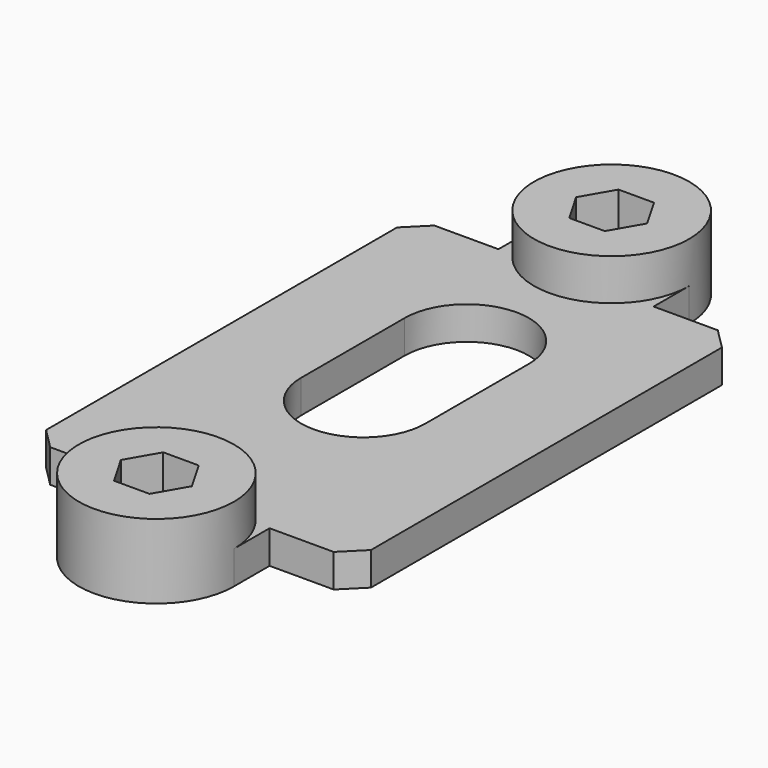
from build123d import *

# Parameters (mm, degrees)
F0_W      = 25
F0_H      = 40
F0_R      = 6.25
F1_DEPTH  = 3.2
F2_W      = 25
F2_H      = 40
F3_DEPTH  = 40
F4_W      = 15
F4_H      = 46.4
F4_R      = 2.25
F5_DEPTH  = 5
F6_SIZE   = 2
F7_R      = 2.25
F8_DEPTH  = 3.2
F9_W      = 46.4
F9_H      = 70
F10_DEPTH = 36.8
F11_W     = 25
F11_H     = 40
F12_DEPTH = 3.2
F13_R     = 7.5
F14_DEPTH = 4


with BuildPart() as f1:
    # F0 (on Top) → F1 (new body)
    with BuildSketch(Plane.XY):
        Rectangle(F0_W, F0_H)
        Circle(F0_R, mode=Mode.SUBTRACT)
    extrude(amount=F1_DEPTH)

    # F2 (on face) → F3 (join)
    with BuildSketch(Plane.XY.offset(3.2)):
        with BuildLine():
            Line((15.7, -23.2), (15.7, 23.2))
            Line((15.7, 23.2), (7.5, 23.2))
            Line((7.5, 23.2), (7.5, 27.5))
            ThreePointArc((7.5, 27.5), (0, 35), (-7.5, 27.5))
            Line((-7.5, 27.5), (-7.5, 23.2))
            Line((-7.5, 23.2), (-15.7, 23.2))
            Line((-15.7, 23.2), (-15.7, -23.2))
            Line((-15.7, -23.2), (-7.5, -23.2))
            Line((-7.5, -23.2), (-7.5, -27.5))
            ThreePointArc((-7.5, -27.5), (0, -35), (7.5, -27.5))
            Line((7.5, -27.5), (7.5, -23.2))
            Line((7.5, -23.2), (15.7, -23.2))
        make_face()
        Polygon((-3.435234, -27.5), (-1.717617, -24.525), (1.717617, -24.525), (3.435234, -27.5), (1.717617, -30.475), (-1.717617, -30.475), align=None, mode=Mode.SUBTRACT)
        Rectangle(F2_W, F2_H, mode=Mode.SUBTRACT)
        Polygon((-3.435234, 27.5), (-1.717617, 30.475), (1.717617, 30.475), (3.435234, 27.5), (1.717617, 24.525), (-1.717617, 24.525), align=None, mode=Mode.SUBTRACT)
    extrude(amount=-F3_DEPTH)

    # F4 (on face) → F5 (join)
    with BuildSketch(Plane.XY.offset(3.2)):
        with Locations((-23.2, 0)):
            Rectangle(F4_W, F4_H)
        with Locations((-23.2, -13.2)):
            Circle(F4_R, mode=Mode.SUBTRACT)
        with Locations((-23.2, 13.2)):
            Circle(F4_R, mode=Mode.SUBTRACT)
    extrude(amount=-F5_DEPTH)

    # F6
    f6_edges = [f1.edges().sort_by_distance(p)[0] for p in [
        (15.7, 23.2, -16.8),
        (-15.7, 23.2, -19.3),
        (-15.7, -23.2, -19.3),
        (15.7, -23.2, -16.8),
        (-30.7, 23.2, 0.7),
        (-30.7, -23.2, 0.7),
    ]]
    chamfer(f6_edges, length=F6_SIZE)

    # F7 (on face) → F8 (join)
    with BuildSketch(Plane(origin=(0, 0, -36.8), x_dir=(1, 0, 0), z_dir=(0, 0, -1))):
        Polygon((1.717617, 30.475), (-1.717617, 30.475), (-3.435234, 27.5), (-1.717617, 24.525), (1.717617, 24.525), (3.435234, 27.5), align=None)
        with Locations((0, 27.5)):
            Circle(F7_R, mode=Mode.SUBTRACT)
        Polygon((-3.435234, -27.5), (-1.717617, -30.475), (1.717617, -30.475), (3.435234, -27.5), (1.717617, -24.525), (-1.717617, -24.525), align=None)
        with Locations((0, -27.5)):
            Circle(F7_R, mode=Mode.SUBTRACT)
    extrude(amount=-F8_DEPTH)

    # F9 (on face) → F10 (cut)
    with BuildSketch(Plane.XY.offset(3.2)):
        with Locations((-7.5, 0)):
            Rectangle(F9_W, F9_H)
    extrude(amount=-F10_DEPTH, mode=Mode.SUBTRACT)

    # F11 (on face) → F12 (join)
    with BuildSketch(Plane.XY.offset(-33.6)):
        Rectangle(F11_W, F11_H)
        with BuildLine():
            ThreePointArc((-6, 10), (0, 16), (6, 10))
            Line((6, 10), (6, -2.5))
            ThreePointArc((6, -2.5), (0, -8.5), (-6, -2.5))
            Line((-6, -2.5), (-6, 10))
        make_face(mode=Mode.SUBTRACT)
    extrude(amount=-F12_DEPTH)

    # F13 (on face) → F14 (join)
    with BuildSketch(Plane.XY.offset(-33.6)):
        with Locations((0, 27.5)):
            Circle(F13_R)
        Polygon((-3.435234, 27.5), (-1.717617, 30.475), (1.717617, 30.475), (3.435234, 27.5), (1.717617, 24.525), (-1.717617, 24.525), align=None, mode=Mode.SUBTRACT)
        with Locations((0, -27.5)):
            Circle(F13_R)
        Polygon((-3.435234, -27.5), (-1.717617, -24.525), (1.717617, -24.525), (3.435234, -27.5), (1.717617, -30.475), (-1.717617, -30.475), align=None, mode=Mode.SUBTRACT)
    extrude(amount=F14_DEPTH)


solid = f1.part
